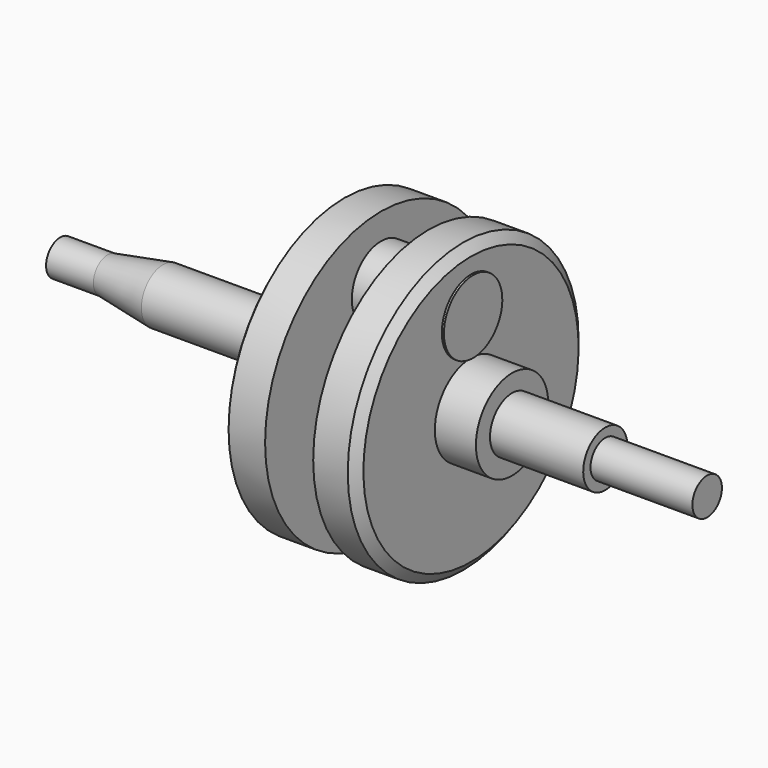
from build123d import *

# Parameters (mm, degrees)
F3_W = 51.3915717602
F3_H = 13.7879867107


with BuildPart() as f1:
    # F0 (on Front) → F1 (revolve)
    with BuildSketch(Plane.XZ):
        Polygon((-456.6233754158, -12.6571897417), (-456.6233754158, -19.3570647389), (-335.4718983173, -19.3570647389), (-335.4718983173, 35.3837870061), (-349.2599129677, 35.3837870061), (-351.8936932087, 31.5794658113), (-351.8936932087, 25.0690672547), (-351.8936932087, 11.698897928), (-351.8936932087, -2.0408849232), (-367.9722547531, -2.0408849232), (-367.9722547531, -9.0839220211), (-417.7640676498, -9.0839220211), (-438.757032156, -12.6571897417), align=None)
    revolve(axis=Axis((-396.0476368666, 0, -19.3570647389), (1, 0, 0)))



with BuildPart() as f2:
    # F0 (on Front) → F2 (revolve)
    with BuildSketch(Plane.XZ):
        Polygon((-317.4982070923, -19.3570647389), (-212.301209569, -19.3570647389), (-212.301209569, -12.3819122091), (-250.7739365101, -12.3819122091), (-250.7739365101, -8.9349010959), (-285.9826683998, -8.9349010959), (-285.9826683998, -2.2870996036), (-301.4942109585, -2.2870996036), (-301.4942109585, 11.698897928), (-301.4942109585, 25.0690672547), (-301.4942109585, 31.4443483949), (-304.4488132, 35.1375713944), (-317.4982070923, 35.1375713944), align=None)
    revolve(axis=Axis((-264.8997083306, 0, -19.3570647389), (1, 0, 0)))


with BuildPart() as f1_1:
    add(f1.part)

    add(f2.part)  # F4 merges F2
    # F3 (on Front) → F4 (revolve)
    with BuildSketch(Plane.XZ):
        with Locations((-326.3935595751, 18.5928912833)):
            Rectangle(F3_W, F3_H)
    revolve(axis=Axis((-326.3935595751, 0, 11.698897928), (1, 0, 0)))


solid = f1_1.part
